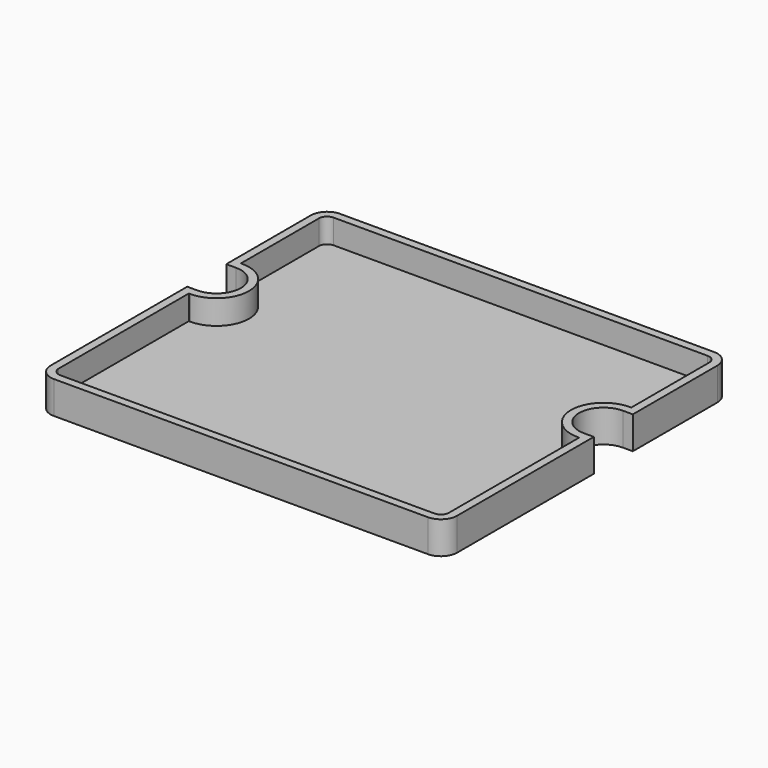
from build123d import *

# Parameters (mm, degrees)
F1_DEPTH = 10
F2_T     = -2.5


with BuildPart() as f1:
    # F0 (on Top) → F1 (new body)
    with BuildSketch(Plane.XY):
        with BuildLine():
            Line((-57.5, -55), (57.5, -55))
            ThreePointArc((57.5, -55), (61.035534, -53.535534), (62.5, -50))
            Line((62.5, -50), (62.5, 2.5))
            Line((62.5, 2.5), (59.5, 2.5))
            ThreePointArc((59.5, 2.5), (52, 10), (59.5, 17.5))
            Line((59.5, 17.5), (62.5, 17.5))
            Line((62.5, 17.5), (62.5, 50))
            ThreePointArc((62.5, 50), (61.035534, 53.535534), (57.5, 55))
            Line((57.5, 55), (-57.5, 55))
            ThreePointArc((-57.5, 55), (-61.035534, 53.535534), (-62.5, 50))
            Line((-62.5, 50), (-62.5, 17.5))
            Line((-62.5, 17.5), (-59.5, 17.5))
            ThreePointArc((-59.5, 17.5), (-52, 10), (-59.5, 2.5))
            Line((-59.5, 2.5), (-62.5, 2.5))
            Line((-62.5, 2.5), (-62.5, -50))
            ThreePointArc((-62.5, -50), (-61.035534, -53.535534), (-57.5, -55))
        make_face()
    extrude(amount=F1_DEPTH)

    # F2
    f2_openings = [f1.faces().sort_by_distance(p)[0] for p in [
        (0, -0.198127, 10),
    ]]
    offset(amount=F2_T, openings=f2_openings)


solid = f1.part
